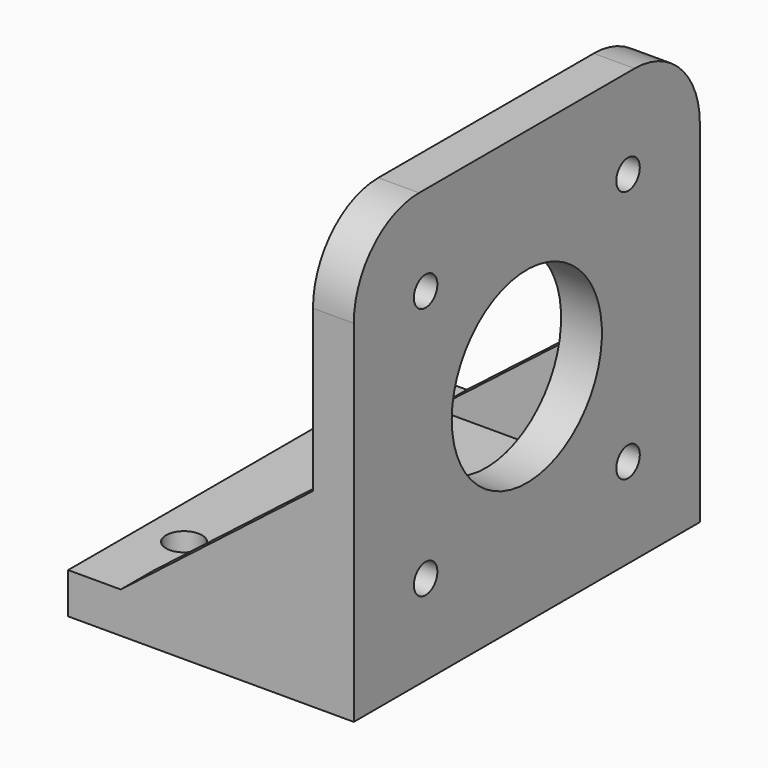
from build123d import *

# Parameters (mm, degrees)
CYLINDER098_R          = 1.8
CYLINDER098_DEPTH      = 5
ARRAY001_X_COUNT       = 2
ARRAY001_X_PITCH       = 31
ARRAY001_Y_COUNT       = 2
ARRAY001_Y_PITCH       = 31
CYLINDER_R             = 2.2
CYLINDER_DEPTH         = 20
ARRAY_X_COUNT          = 2
ARRAY_X_PITCH          = 30
ARRAY_Y_COUNT          = 2
ARRAY_Y_PITCH          = 20
ARRAY_PLACEMENT_ANGLE  = 90
CYLINDER097_R          = 11.5
CYLINDER097_DEPTH      = 5
BOX006_W               = 53
BOX006_H               = 5
BOX006_DEPTH           = 30
BOX005_W               = 53
BOX005_H               = 53
BOX005_DEPTH           = 5
FILLET001_R            = 10
PAD001_DEPTH           = 5
ARRAY002_X_COUNT       = 2
ARRAY002_X_PITCH       = 48
CUT004_ROLL_ANGLE      = 90
CUT004_PLACEMENT_ANGLE = -90


with BuildPart() as stepper_bolt_hole_array:
    # Cylinder098 → Cylinder098 (new body)
    with BuildSketch(Plane.XY):
        Circle(CYLINDER098_R)
    extrude(amount=CYLINDER098_DEPTH)

    # Array001 X: stepper bolt hole array ×2


with BuildPart() as stepper_bolt_hole_array_1:
    add(stepper_bolt_hole_array.part)
    with Locations(*[(i * ARRAY001_X_PITCH, 0, 0) for i in range(1, ARRAY001_X_COUNT)]):
        add(stepper_bolt_hole_array.part)

    # Array001 Y: stepper bolt hole array ×2


with BuildPart() as stepper_bolt_hole_array_2:
    add(stepper_bolt_hole_array_1.part)
    with Locations(*[(0, i * ARRAY001_Y_PITCH, 0) for i in range(1, ARRAY001_Y_COUNT)]):
        add(stepper_bolt_hole_array_1.part)


with BuildPart() as stepper_bolt_hole_array_3:
    # Array001 placement: moved
    add(stepper_bolt_hole_array_2.part.moved(Location((-15.5, -15.5, 0))))


with BuildPart() as insert_hole_array:
    # Cylinder → Cylinder (new body)
    with BuildSketch(Plane.XY.offset(-3)):
        Circle(CYLINDER_R)
    extrude(amount=CYLINDER_DEPTH)

    # Array X: insert hole array ×2


with BuildPart() as insert_hole_array_1:
    add(insert_hole_array.part)
    with Locations(*[(i * ARRAY_X_PITCH, 0, 0) for i in range(1, ARRAY_X_COUNT)]):
        add(insert_hole_array.part)

    # Array Y: insert hole array ×2


with BuildPart() as insert_hole_array_2:
    add(insert_hole_array_1.part)
    with Locations(*[(0, i * ARRAY_Y_PITCH, 0) for i in range(1, ARRAY_Y_COUNT)]):
        add(insert_hole_array_1.part)


with BuildPart() as insert_hole_array_3:
    # Array placement: moved
    add(insert_hole_array_2.part.moved(Location((-15, -20.5, 10))).rotate(Axis((-15, -20.5, 10), (1, 0, 0)), ARRAY_PLACEMENT_ANGLE))


with BuildPart() as stepper_mount_holes:
    # Cylinder097 → Cylinder097 (new body)
    with BuildSketch(Plane.XY):
        Circle(CYLINDER097_R)
    extrude(amount=CYLINDER097_DEPTH)

    # Fusion006: union stepper bolt hole array, insert hole array
    add(stepper_bolt_hole_array_3.part)
    add(insert_hole_array_3.part)


with BuildPart() as stepper_mount_bottom:
    # Box006 → Box006 (new body)
    with BuildSketch(Plane(origin=(-26.5, -26.5, 5), x_dir=(1, 0, 0), z_dir=(0, 0, 1))):
        with Locations((26.5, 2.5)):
            Rectangle(BOX006_W, BOX006_H)
    extrude(amount=BOX006_DEPTH)


with BuildPart() as stepper_mount_cube_fillet:
    # Box005 → Box005 (new body)
    with BuildSketch(Plane(origin=(-26.5, -26.5, 0), x_dir=(1, 0, 0), z_dir=(0, 0, 1))):
        with Locations((26.5, 26.5)):
            Rectangle(BOX005_W, BOX005_H)
    extrude(amount=BOX005_DEPTH)

    # Fillet001
    fillet001_edges = [stepper_mount_cube_fillet.edges().sort_by_distance(p)[0] for p in [
        (-26.5, 26.5, 2.5),
        (26.5, 26.5, 2.5),
    ]]
    fillet(fillet001_edges, radius=FILLET001_R)


with BuildPart() as stepper_mount_cut:
    # Sketch001 → Pad001 (new body)
    with BuildSketch(Plane.YZ):
        Polygon((-26.5, 5), (-3.224222, 5), (-26.5, 35), align=None)
    extrude(amount=PAD001_DEPTH)

    # Array002 X: stepper mount cut ×2


with BuildPart() as stepper_mount_cut_1:
    add(stepper_mount_cut.part)
    with Locations(*[(i * ARRAY002_X_PITCH, 0, 0) for i in range(1, ARRAY002_X_COUNT)]):
        add(stepper_mount_cut.part)


with BuildPart() as stepper_mount_cut_2:
    # Array002 placement: moved
    add(stepper_mount_cut_1.part.moved(Location((-26.5, 0, 0))))

    # Fusion007: union stepper mount bottom, stepper mount cube fillet
    add(stepper_mount_bottom.part)
    add(stepper_mount_cube_fillet.part)

    # Cut004: cut stepper mount holes
    add(stepper_mount_holes.part, mode=Mode.SUBTRACT)


with BuildPart() as stepper_mount_cut_3:
    # Cut004 roll: moved
    add(stepper_mount_cut_2.part.rotate(Axis((0, 0, 0), (1, 0, 0)), CUT004_ROLL_ANGLE))


with BuildPart() as stepper_mount_cut_4:
    # Cut004 placement: moved
    add(stepper_mount_cut_3.part.moved(Location((0, 0, 21.5))).rotate(Axis((0, 0, 21.5), (0, 0, 1)), CUT004_PLACEMENT_ANGLE))


solid = stepper_mount_cut_4.part
